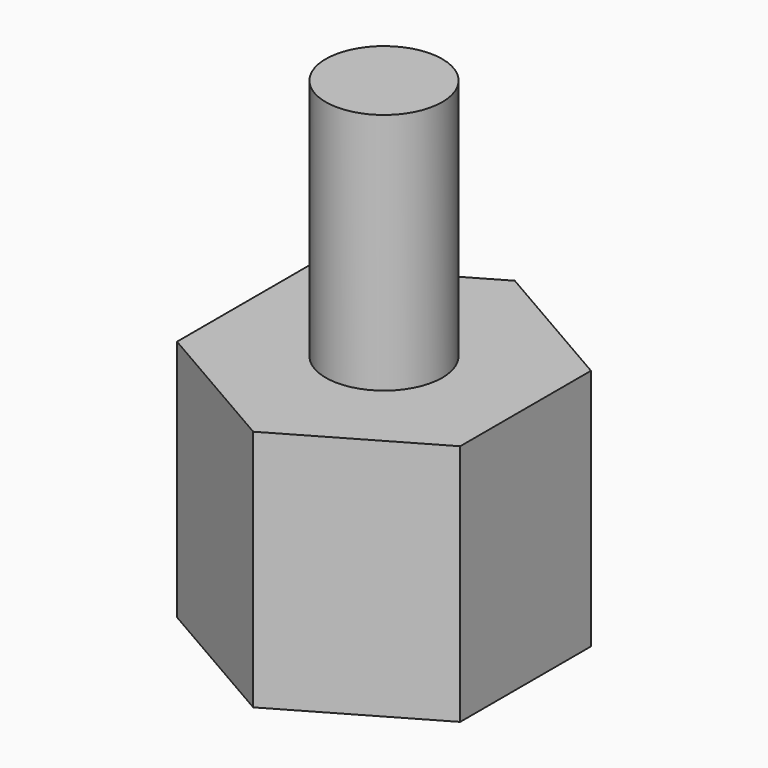
from build123d import *

# Parameters (mm, degrees)
F0_R     = 1.829908
F1_DEPTH = 7.62
F2_DEPTH = 15.24


with BuildPart() as f1:
    # F0 (on Top) → F1 (new body)
    with BuildSketch(Plane.XY):
        Polygon((4.445, -2.566322), (4.445, 2.566322), (0, 5.132644), (-4.445, 2.566322), (-4.445, -2.566322), (0, -5.132644), align=None)
        Circle(F0_R, mode=Mode.SUBTRACT)
    extrude(amount=F1_DEPTH)

    # F0 (on Top) → F2 (join)
    with BuildSketch(Plane.XY):
        Circle(F0_R)
    extrude(amount=F2_DEPTH)


solid = f1.part
